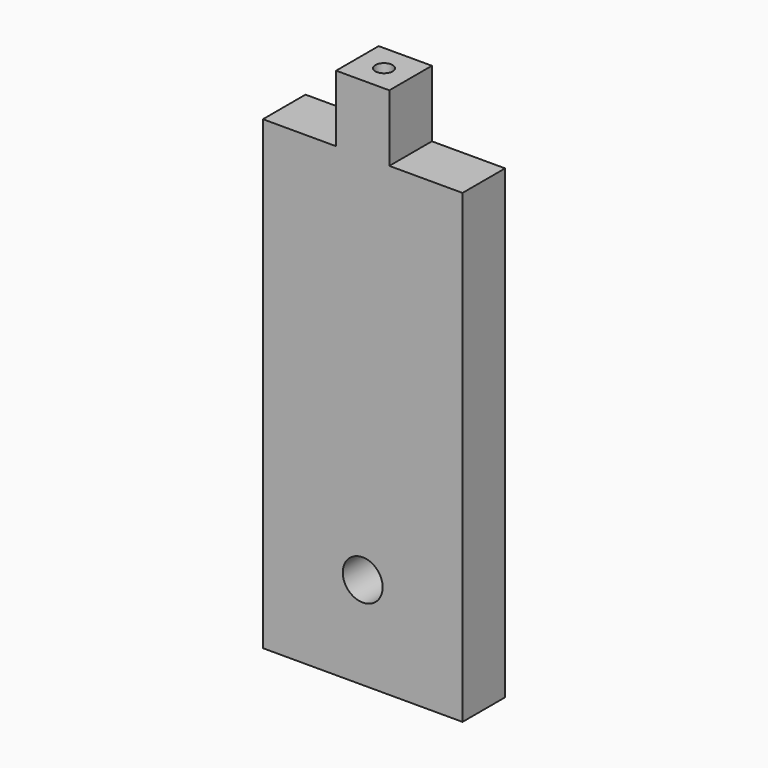
from build123d import *

# Parameters (mm, degrees)
F0_R     = 1.5
F1_DEPTH = 4
F2_DEPTH = 4
F3_R     = 0.65
F4_DEPTH = 3


with BuildPart() as f1:
    # F0 (on Front) → F1 (new body)
    with BuildSketch(Plane.XZ):
        Polygon((-7.5, -12.5), (7.5, -12.5), (7.5, 22.5), (2, 22.5), (2, 27.5), (-2, 27.5), (-2, 22.5), (-7.5, 22.5), align=None)
        with Locations((0, -5.542802)):
            Circle(F0_R, mode=Mode.SUBTRACT)
    extrude(amount=F1_DEPTH)

    # F0 (on Front) → F2 (join)
    with BuildSketch(Plane.XZ):
        Polygon((-7.5, -12.5), (7.5, -12.5), (7.5, 22.5), (2, 22.5), (2, 27.5), (-2, 27.5), (-2, 22.5), (-7.5, 22.5), align=None)
        with Locations((0, -5.542802)):
            Circle(F0_R, mode=Mode.SUBTRACT)
    extrude(amount=F2_DEPTH)

    # F3 (on face) → F4 (cut)
    with BuildSketch(Plane.XY.offset(27.5)):
        with Locations((0, -2)):
            Circle(F3_R)
    extrude(amount=-F4_DEPTH, mode=Mode.SUBTRACT)


solid = f1.part
